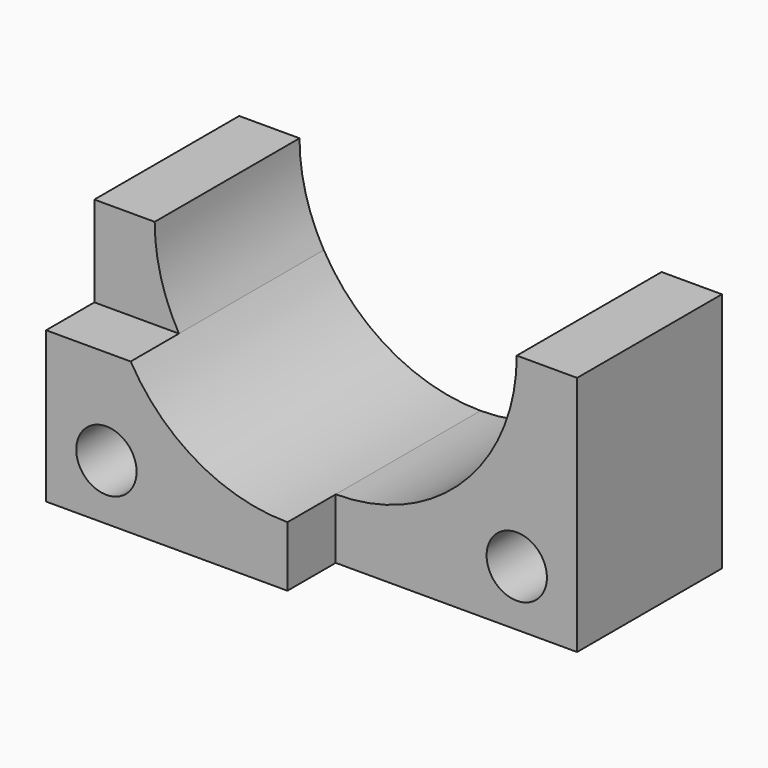
from build123d import *

# Parameters (mm, degrees)
F0_R     = 5
F1_DEPTH = 30
F2_DEPTH = 40


with BuildPart() as f1:
    # F0 (on Front) → F1 (new body)
    with BuildSketch(Plane.XZ):
        with BuildLine():
            ThreePointArc((30, 0), (21.213203, -21.213203), (0, -30))
            Line((0, -30), (0, -40))
            Line((0, -40), (40, -40))
            Line((40, -40), (40, 0))
            Line((40, 0), (30, 0))
        make_face()
        with Locations((30, -30.772474)):
            Circle(F0_R, mode=Mode.SUBTRACT)
        with BuildLine():
            ThreePointArc((-25.980762, -15), (-28.977775, -7.764571), (-30, 0))
            Line((-30, 0), (-40, 0))
            Line((-40, 0), (-40, -15))
            Line((-40, -15), (-25.980762, -15))
        make_face()
    extrude(amount=F1_DEPTH)

    # F0 (on Front) → F2 (join)
    with BuildSketch(Plane.XZ):
        with BuildLine():
            ThreePointArc((0, -30), (-15, -25.980762), (-25.980762, -15))
            Line((-25.980762, -15), (-40, -15))
            Line((-40, -15), (-40, -40))
            Line((-40, -40), (0, -40))
            Line((0, -40), (0, -30))
        make_face()
        with Locations((-30, -30.772474)):
            Circle(F0_R, mode=Mode.SUBTRACT)
    extrude(amount=F2_DEPTH)


solid = f1.part
